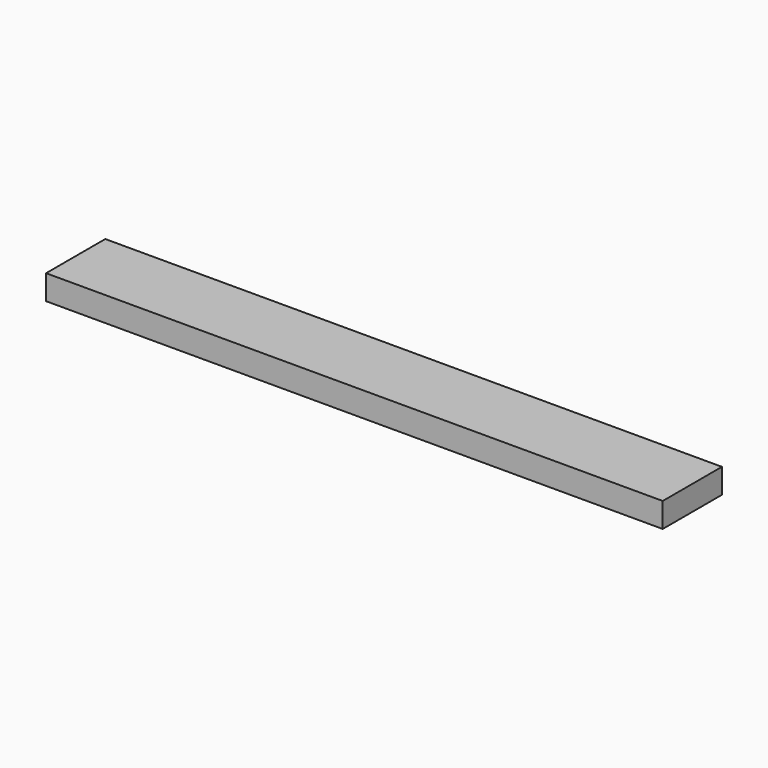
from build123d import *

# Parameters (mm, degrees)
F0_W     = 76.2
F0_H     = 25.4
F1_DEPTH = 317.5
F2_T     = -2.778125


with BuildPart() as f1:
    # F0 (on Right) → F1 (new body, symmetric)
    with BuildSketch(Plane.YZ):
        with Locations((38.1, 12.7)):
            Rectangle(F0_W, F0_H)
    extrude(amount=F1_DEPTH, both=True)

    # F2
    f2_openings = [f1.faces().sort_by_distance(p)[0] for p in [
        (0, 38.1, 0),
    ]]
    offset(amount=F2_T, openings=f2_openings)


solid = f1.part
